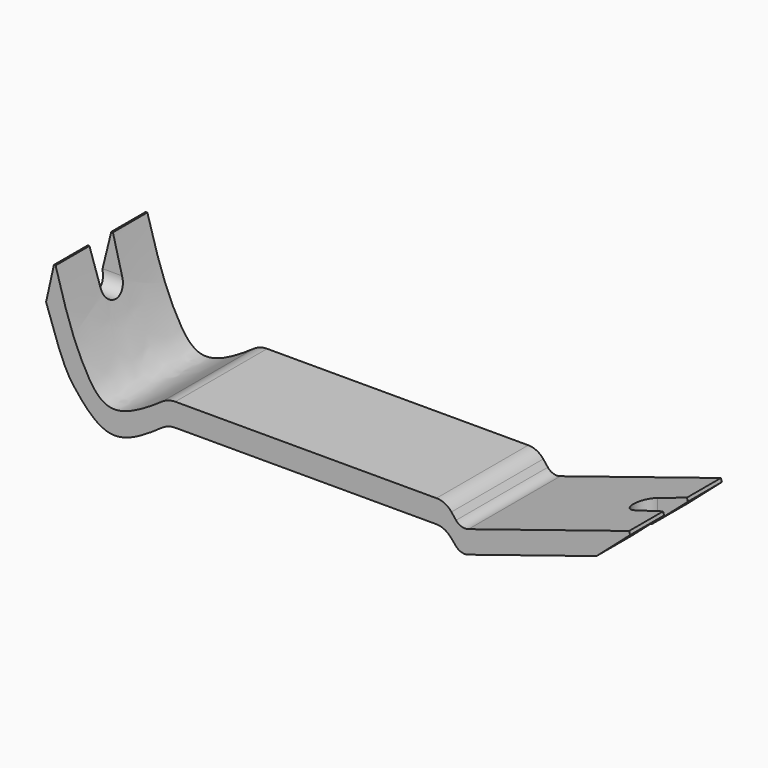
from build123d import *

# Parameters (mm, degrees)
F1_DEPTH = 30
F3_START = -60
F3_DEPTH = 20
F5_DEPTH = 15


with BuildPart() as f1:
    # F0 (on Front) → F1 (new body)
    with BuildSketch(Plane.XZ):
        with BuildLine():
            Line((-73.2672911175, 26.5288166702), (-75.3194466233, 17.3055510968))
            add(Edge.make_bspline(
                [(-75.3194466233, 17.3055510968), (-70.9649776781, 4.4868251649), (-69.3683816602, 1.5297526715), (-58.7741680812, -10.797200258), (-50.064963712, -5.329070788), (-44.9501895242, -1.7400602878)],
                knots=[0, 0, 0, 0, 0.374435083, 0.6549537817, 0.9687940857, 0.9687940857, 0.9687940857, 0.9687940857], degree=3))
            ThreePointArc((-44.9501895242, -1.7400602878), (-43.310919022, -0.9301366905), (-41.5038310897, -0.6515380228))
            Line((-41.5038310897, -0.6515380228), (26.6625816426, -0.6515380228))
            ThreePointArc((26.6625816426, -0.6515380228), (28.7383095769, -1.1027630731), (30.4393893345, -2.3749966056))
            Line((30.4393893345, -2.3749966056), (31.9053379066, -4.0647679645))
            ThreePointArc((31.9053379066, -4.0647679645), (33.3557980505, -4.9858409878), (35.0738020651, -4.9599112993))
            Line((35.0738020651, -4.9599112993), (68.6204453138, 5.6206840096))
            Line((68.6204453138, 5.6206840096), (77.4316421282, 13.3455851134))
            Line((77.4316421282, 13.3455851134), (77.1660596132, 14.18763621))
            Line((77.1660596132, 14.18763621), (35.1581896409, 0.9383740209))
            ThreePointArc((35.1581896409, 0.9383740209), (33.3767909305, 0.9311107565), (31.9053377109, 1.9352320355))
            Line((31.9053377109, 1.9352320355), (30.6995972244, 3.4554789281))
            ThreePointArc((30.6995972244, 3.4554789281), (28.9575644986, 4.8504107083), (26.7821432468, 5.3484619772))
            Line((26.7821432468, 5.3484619772), (-41.5150223961, 5.3484619772))
            ThreePointArc((-41.5150223961, 5.3484619772), (-43.3039602481, 5.0755643302), (-44.9301657899, 4.2816957645))
            add(Edge.make_bspline(
                [(-72.8339403868, 26.5288166702), (-69.6615353227, 15.0968804955), (-66.54271386, 6.9837829262), (-59.2191643212, -4.6015653314), (-50.1028643922, 0.7007774012), (-44.9301657899, 4.2816957645)],
                knots=[0, 0, 0, 0, 0.3985404471, 0.6568286308, 0.9694419113, 0.9694419113, 0.9694419113, 0.9694419113], degree=3))
            Line((-72.8339403868, 26.5288166702), (-73.2672911175, 26.5288166702))
        make_face()
    extrude(amount=F1_DEPTH)

    # F2 (on Right) → F3 (cut)
    with BuildSketch(Plane.YZ.offset(F3_START)):
        with BuildLine():
            ThreePointArc((-18.5974218494, 17.528353259), (-15.0974218494, 14.028353259), (-11.5974218494, 17.528353259))
            Line((-11.5974218494, 17.528353259), (-11.2484100663, 26.7637830809))
            Line((-11.2484100663, 26.7637830809), (-18.946434269, 26.7637830809))
            Line((-18.946434269, 26.7637830809), (-18.5974218494, 17.528353259))
        make_face()
    extrude(amount=-F3_DEPTH, mode=Mode.SUBTRACT)

    # F4 (on Top) → F5 (cut)
    with BuildSketch(Plane.XY):
        with BuildLine():
            Line((78.2688707113, -11.0539328307), (69.7815798237, -11.5))
            ThreePointArc((69.7815798237, -11.5), (66.2815798237, -15), (69.7815798237, -18.5))
            Line((69.7815798237, -18.5), (78.2688707113, -18.9460671693))
            Line((78.2688707113, -18.9460671693), (78.2688707113, -11.0539328307))
        make_face()
    extrude(amount=F5_DEPTH, mode=Mode.SUBTRACT)


solid = f1.part
